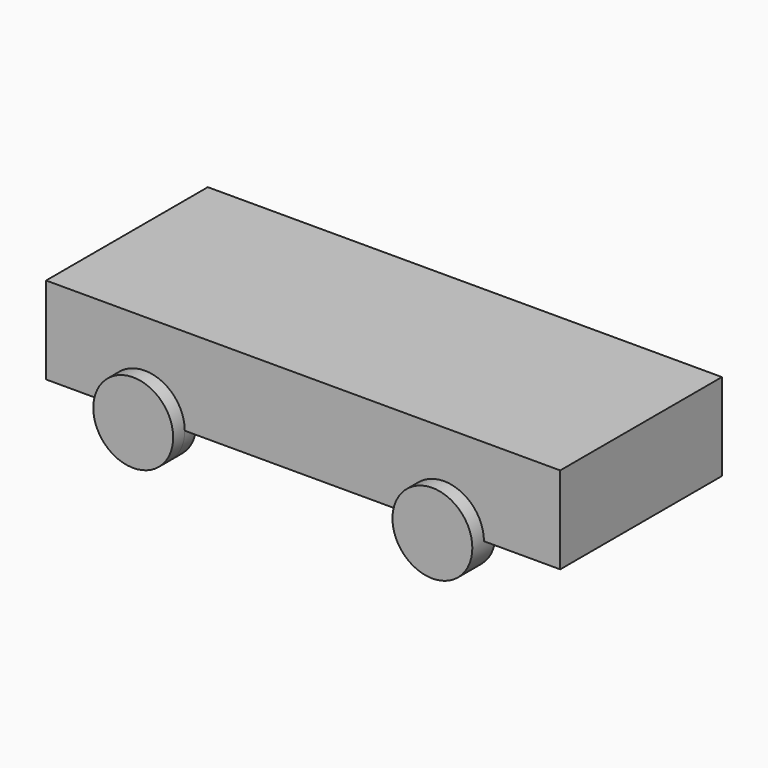
from build123d import *

# Parameters (mm, degrees)
F0_W     = 449.58
F0_H     = 176.784
F1_DEPTH = 76.2
F2_R     = 34.925
F3_DEPTH = 12.7


with BuildPart() as f1:
    # F0 (on Top) → F1 (new body)
    with BuildSketch(Plane.XY):
        with Locations((-1.066901, -6.868657)):
            Rectangle(F0_W, F0_H)
    extrude(amount=F1_DEPTH)

    # F2 (on face) → F3 (join, symmetric)
    with BuildSketch(Plane.XZ.offset(95.260657)):
        with Locations((-139.496901, 0)):
            Circle(F2_R)
        with Locations((122.123099, 0)):
            Circle(F2_R)
    extrude(amount=F3_DEPTH, both=True)


solid = f1.part
